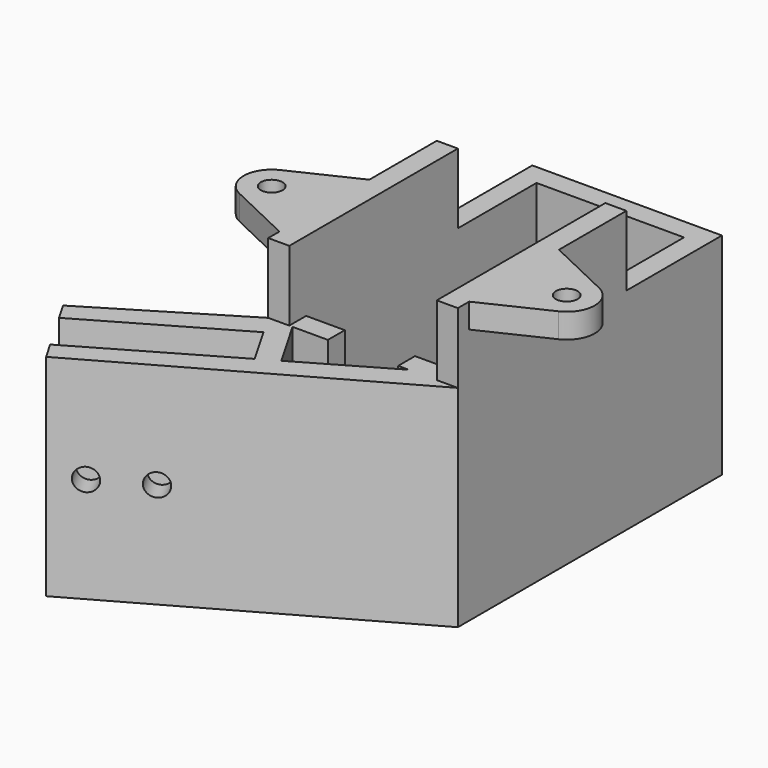
from build123d import *

# Parameters (mm, degrees)
SKETCH_W        = 21
SKETCH_H        = 41
PAD_DEPTH       = 30
SKETCH001_W     = 10
SKETCH001_H     = 27
POCKET_DEPTH    = 3.1
SKETCH002_R     = 1.6
POCKET001_DEPTH = 12.5
SKETCH003_W     = 3
SKETCH003_H     = 30
PAD001_DEPTH    = 10
SKETCH004_R     = 1.55
PAD002_DEPTH    = 3.5


with BuildPart() as body:
    # Sketch → Pad (new body)
    with BuildSketch(Plane.XY):
        Polygon((13.5, 0), (13.5, 47), (-13.5, 47), (-13.5, 0), (26.918584287, -22.7583302492), (28.418584287, -20.1602540378), (8.5, -8.6602540378), (11.75, -3.0310889132), (31.668584287, -14.5310889132), (33.168584287, -11.9330127019), align=None)
        with Locations((0, 23.5)):
            Rectangle(SKETCH_W, SKETCH_H, mode=Mode.SUBTRACT)
        Polygon((-6.5, 0), (10.0358983849, 0), (5.9019237886, -7.1602540378), align=None, mode=Mode.SUBTRACT)
    extrude(amount=PAD_DEPTH)

    # Sketch001 (on Face11 of Pad) → Pocket (cut)
    with BuildSketch(Plane(origin=(0, 3, 0), x_dir=(-1, 0, 0), z_dir=(0, 1, 0))):
        with Locations((0, 16.5)):
            Rectangle(SKETCH001_W, SKETCH001_H)
    extrude(amount=-POCKET_DEPTH, mode=Mode.SUBTRACT)

    # Sketch002 (on Face10 of Pocket) → Pocket001 (cut, symmetric)
    with BuildSketch(Plane(origin=(-1.625, -2.8145825623, 0), x_dir=(-0.8660254038, 0.5, 0), z_dir=(0.5, 0.8660254038, 0))):
        with Locations((-30.1913429511, 15)):
            Circle(SKETCH002_R)
        with Locations((-22.1913429511, 15)):
            Circle(SKETCH002_R)
    extrude(amount=POCKET001_DEPTH, both=True, mode=Mode.SUBTRACT)

    # Sketch003 (on Face5 of Pocket001) → Pad001 (join)
    with BuildSketch(Plane.XY.offset(30)):
        with Locations((-12, 15)):
            Rectangle(SKETCH003_W, SKETCH003_H)
        with Locations((12, 15)):
            Rectangle(SKETCH003_W, SKETCH003_H)
    extrude(amount=PAD001_DEPTH)

    # Sketch004 (on Face26 of Pad001) → Pad002 (join)
    with BuildSketch(Plane.XY.offset(40)):
        with BuildLine():
            Line((-13.5, 18), (-13.5, 2))
            Line((-13.5, 2), (-22.7191621265, 6.3882855064))
            ThreePointArc((-22.7191621265, 13.6117144936), (-25, 10), (-22.7191621265, 6.3882855064))
            Line((-13.5, 18), (-22.7191621265, 13.6117144936))
        make_face()
        with Locations((-21, 10)):
            Circle(SKETCH004_R, mode=Mode.SUBTRACT)
        with BuildLine():
            Line((22.7191621265, 6.3882855064), (13.5, 2))
            Line((13.5, 2), (13.5, 18))
            Line((13.5, 18), (22.7191621265, 13.6117144936))
            ThreePointArc((22.7191621265, 6.3882855064), (25, 10), (22.7191621265, 13.6117144936))
        make_face()
        with Locations((21, 10)):
            Circle(SKETCH004_R, mode=Mode.SUBTRACT)
    extrude(amount=-PAD002_DEPTH)


with BuildPart() as part_mirroring:
    # Part__Mirroring: instance of Body
    add(body.part.mirror(Plane(origin=(0, 0, 0), x_dir=(0, -1, 0), z_dir=(1, 0, 0))))


solid = part_mirroring.part
